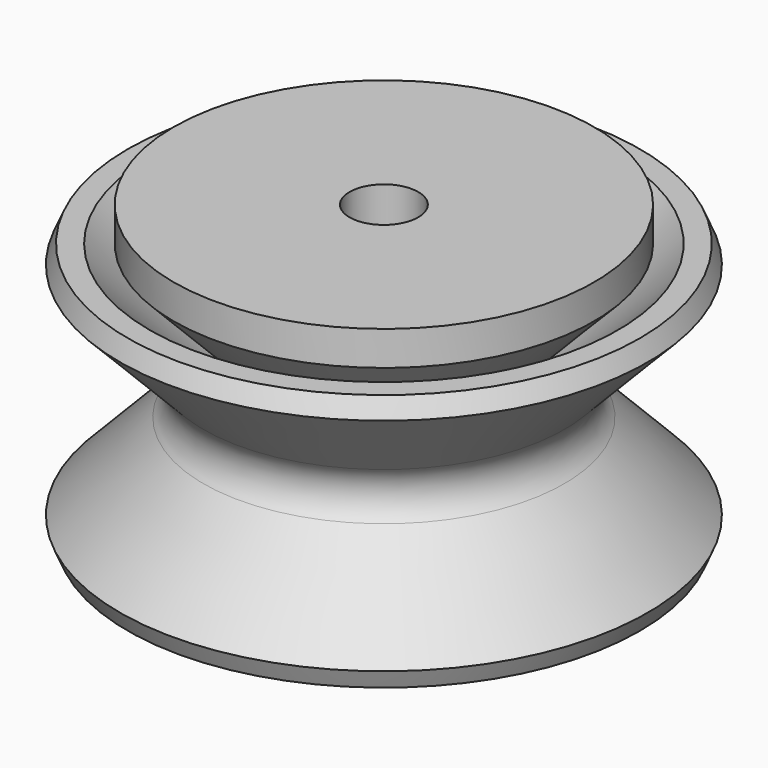
from build123d import *

# Parameters (mm, degrees)
F0_W    = 10.242666
F0_H    = 2
F2_SIZE = 1.5


with BuildPart() as f1:
    # F0 (on Front) → F1 (revolve)
    with BuildSketch(Plane.XZ):
        with BuildLine():
            Line((-2, -7.5), (-2, 7.5))
            Line((-2, 7.5), (-12.242666, 7.5))
            Line((-12.242666, 7.5), (-6.341648, 1.389317))
            ThreePointArc((-6.341648, 1.389317), (-5.780327, 0), (-6.341648, -1.389317))
            Line((-6.341648, -1.389317), (-12.242666, -7.5))
            Line((-12.242666, -7.5), (-2, -7.5))
        make_face()
        with Locations((-7.121333, 8.5)):
            Rectangle(F0_W, F0_H)
        with BuildLine():
            Line((-7.731811, 1.389317), (-13.632829, 7.5))
            Line((-13.632829, 7.5), (-16.413157, 7.5))
            Line((-16.413157, 7.5), (-10.512138, 1.389317))
            ThreePointArc((-10.512138, 1.389317), (-9.950818, 0), (-10.512138, -1.389317))
            Line((-10.512138, -1.389317), (-16.413157, -7.5))
            Line((-16.413157, -7.5), (-13.632829, -7.5))
            Line((-13.632829, -7.5), (-7.731811, -1.389317))
            ThreePointArc((-7.731811, -1.389317), (-7.170491, 0), (-7.731811, 1.389317))
        make_face()
    revolve(axis=Axis((0, 0, -0.133118), (0, 0, -1)))

    # F2
    f2_edges = [f1.edges().sort_by_distance(p)[0] for p in [
        (12.242666, 0, -7.5),
        (16.413157, 0, -7.5),
        (16.413157, 0, 7.5),
    ]]
    chamfer(f2_edges, length=F2_SIZE)


solid = f1.part
